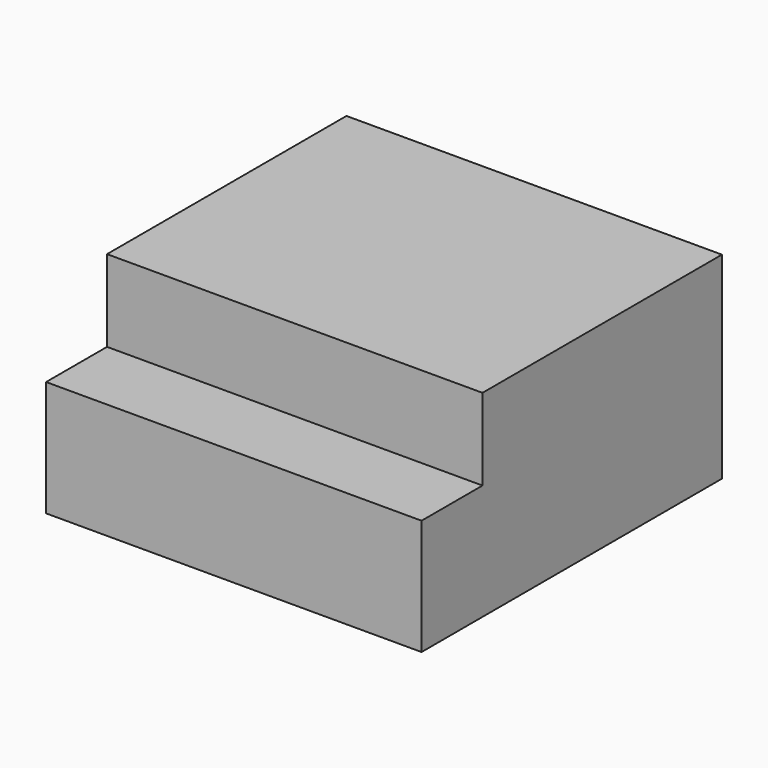
from build123d import *

# Parameters (mm, degrees)
BOX_W        = 13.8
BOX_H        = 13.8
BOX_DEPTH    = 7.25
SKETCH_W     = 13.8
SKETCH_H     = 2.8
POCKET_DEPTH = 3


with BuildPart() as part:
    # Box → Box (new body)
    with BuildSketch(Plane.XY):
        with Locations((6.9, 6.9)):
            Rectangle(BOX_W, BOX_H)
    extrude(amount=BOX_DEPTH)

    # Sketch (on Face6 of BaseFeature) → Pocket (cut)
    with BuildSketch(Plane.XY.offset(7.25)):
        with Locations((6.9, 1.4)):
            Rectangle(SKETCH_W, SKETCH_H)
    extrude(amount=-POCKET_DEPTH, mode=Mode.SUBTRACT)


solid = part.part
